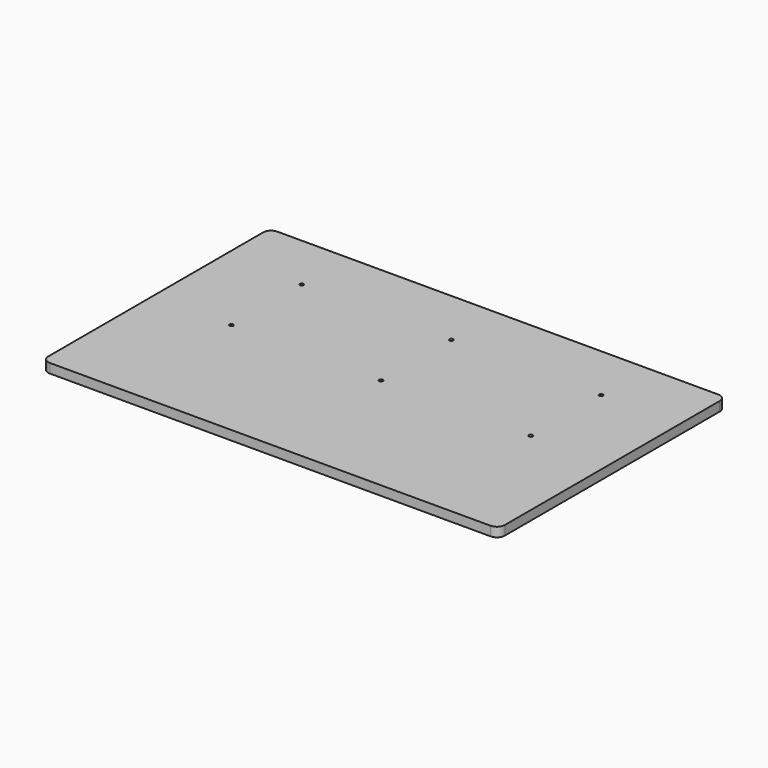
from build123d import *

# Parameters (mm, degrees)
SKETCH_W  = 1220
SKETCH_H  = 760
SKETCH_R  = 5
PAD_DEPTH = 25
FILLET_R  = 21


with BuildPart() as part:
    # Sketch → Pad (new body)
    with BuildSketch(Plane.XY):
        Rectangle(SKETCH_W, SKETCH_H)
        with Locations((-400, 225)):
            Circle(SKETCH_R, mode=Mode.SUBTRACT)
        with Locations((-400, -10)):
            Circle(SKETCH_R, mode=Mode.SUBTRACT)
        with Locations((0, -10)):
            Circle(SKETCH_R, mode=Mode.SUBTRACT)
        with Locations((400, -10)):
            Circle(SKETCH_R, mode=Mode.SUBTRACT)
        with Locations((400, 225)):
            Circle(SKETCH_R, mode=Mode.SUBTRACT)
        with Locations((0, 225)):
            Circle(SKETCH_R, mode=Mode.SUBTRACT)
    extrude(amount=PAD_DEPTH)

    # Fillet
    fillet_edges = [part.edges().sort_by_distance(p)[0] for p in [
        (-610, -380, 12.5),
        (610, -380, 12.5),
        (610, 380, 12.5),
        (-610, 380, 12.5),
    ]]
    fillet(fillet_edges, radius=FILLET_R)


solid = part.part
